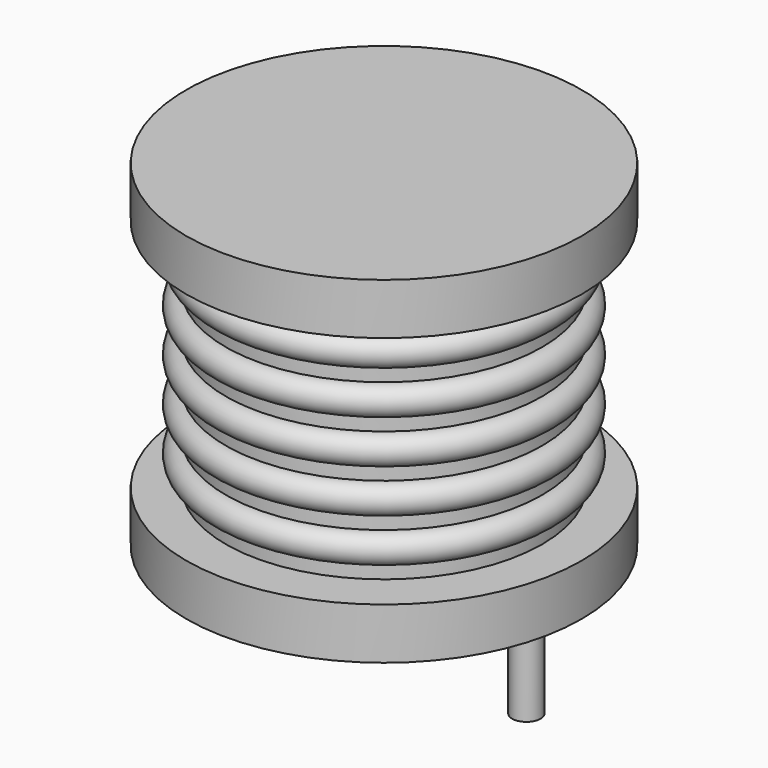
from build123d import *

# Parameters (mm, degrees)
SKETCH001_R  = 0.45
PAD001_DEPTH = 3.5


with BuildPart() as revolution:
    # Sketch → Revolution (revolve)
    with BuildSketch(Plane(origin=(4.5, 0, 0), x_dir=(1, 0, 0), z_dir=(0, -1, 0))):
        Polygon((0, 0.05), (3.6, 0.05), (3.6, 0.2), (6.25, 0.2), (6.25, 1.82), (1.25, 1.82), (1.25, 9.23), (6.25, 9.23), (6.25, 10.85), (0, 10.85), align=None)
    revolve(axis=Axis((4.5, 0, 0), (0, 0, 1)))


with BuildPart() as pad001:
    # Sketch001 → Pad001 (new body)
    with BuildSketch(Plane.XY.offset(0.5)):
        Circle(SKETCH001_R)
        with Locations((9, 0)):
            Circle(SKETCH001_R)
    extrude(amount=-PAD001_DEPTH)


with BuildPart() as obj1:
    # Sketch002 → Revolution001 (revolve)
    with BuildSketch(Plane(origin=(4.5, 0, 0), x_dir=(1, 0, 0), z_dir=(0, -1, 0))):
        with BuildLine():
            Line((5, 1.87), (1.25, 1.87))
            Line((1.25, 1.87), (1.25, 9.18))
            Line((1.25, 9.18), (5, 9.18))
            Line((5, 9.18), (5, 8.723125))
            ThreePointArc((5, 7.809375), (5.456875, 8.26625), (5, 8.723125))
            Line((5, 7.809375), (5, 7.3525))
            ThreePointArc((5, 6.43875), (5.456875, 6.895625), (5, 7.3525))
            Line((5, 6.43875), (5, 5.981875))
            ThreePointArc((5, 5.068125), (5.456875, 5.525), (5, 5.981875))
            Line((5, 5.068125), (5, 4.61125))
            ThreePointArc((5, 3.6975), (5.456875, 4.154375), (5, 4.61125))
            Line((5, 3.6975), (5, 3.240625))
            ThreePointArc((5, 2.326875), (5.456875, 2.78375), (5, 3.240625))
            Line((5, 1.87), (5, 2.326875))
        make_face()
    revolve(axis=Axis((4.5, 0, 0), (0, 0, 1)))

    add(revolution.part)
    add(pad001.part)


solid = obj1.part
